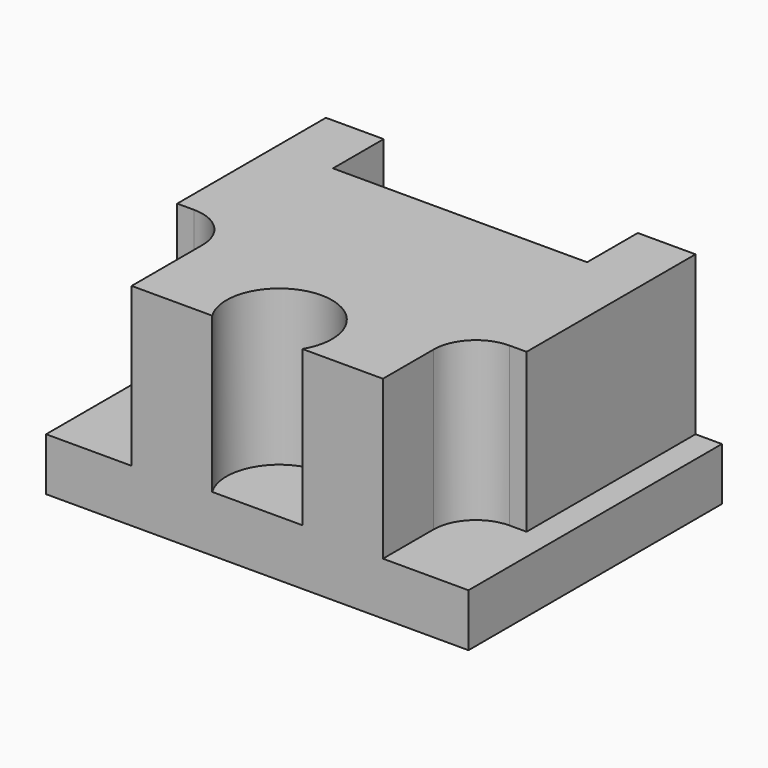
from build123d import *

# Parameters (mm, degrees)
F0_W      = 50.8
F0_H      = 38.1
F1_DEPTH  = 6.35
F2_W      = 44.45
F2_H      = 38.1
F3_DEPTH  = 19.05
F4_W      = 6.35
F4_H      = 19.05
F6_W      = 30.563162
F6_H      = 19.685
F7_DEPTH  = 7.62
F8_W      = 15.748
F8_H      = 19.05
F9_DEPTH  = 7.112
F10_W     = 12.7
F10_H     = 19.05
F11_DEPTH = 7.112
F12_R     = 5.08
F13_R     = 5.08


with BuildPart() as f1:
    # F0 (on Top) → F1 (new body)
    with BuildSketch(Plane.XY):
        Rectangle(F0_W, F0_H)
    extrude(amount=F1_DEPTH)

    # F2 (on face) → F3 (join)
    with BuildSketch(Plane.XY.offset(6.35)):
        Rectangle(F2_W, F2_H)
    extrude(amount=F3_DEPTH)

    # F4 (on Right) → F5 (revolve, cut)
    with BuildSketch(Plane.YZ):
        with Locations((-18.92219, 16.263971)):
            Rectangle(F4_W, F4_H)
    revolve(axis=Axis((0, -15.74719, 16.263971), (0, 0, 1)), mode=Mode.SUBTRACT)

    # F6 (on face) → F7 (cut)
    with BuildSketch(Plane(origin=(0, 19.05, 0), x_dir=(-1, 0, 0), z_dir=(0, 1, 0))):
        with Locations((0, 15.5575)):
            Rectangle(F6_W, F6_H)
    extrude(amount=-F7_DEPTH, mode=Mode.SUBTRACT)

    # F8 (on face) → F9 (cut)
    with BuildSketch(Plane(origin=(-22.225, 0, 0), x_dir=(0, -1, 0), z_dir=(-1, 0, 0))):
        with Locations((11.176, 15.875)):
            Rectangle(F8_W, F8_H)
    extrude(amount=-F9_DEPTH, mode=Mode.SUBTRACT)

    # F10 (on face) → F11 (cut)
    with BuildSketch(Plane.YZ.offset(22.225)):
        with Locations((-12.7, 15.875)):
            Rectangle(F10_W, F10_H)
    extrude(amount=-F11_DEPTH, mode=Mode.SUBTRACT)

    # F12
    f12_edges = [f1.edges().sort_by_distance(p)[0] for p in [
        (-15.113, -3.302, 15.875),
    ]]
    fillet(f12_edges, radius=F12_R)

    # F13
    f13_edges = [f1.edges().sort_by_distance(p)[0] for p in [
        (15.113, -6.35, 15.875),
    ]]
    fillet(f13_edges, radius=F13_R)


solid = f1.part
